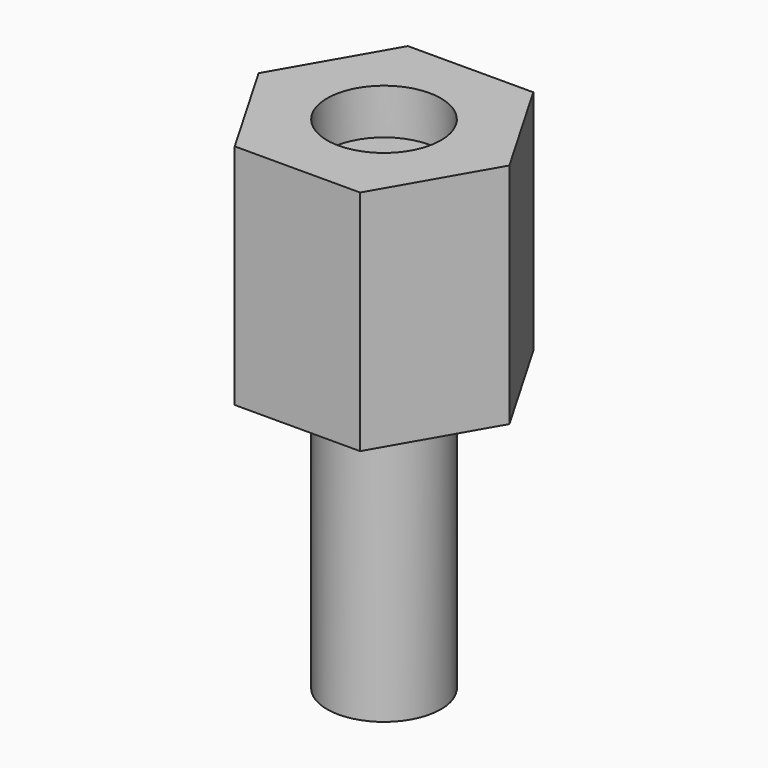
from build123d import *

# Parameters (mm, degrees)
F1_DEPTH = 5
F2_R     = 1.25
F3_DEPTH = 6
F5_R     = 1.25
F6_DEPTH = 7


with BuildPart() as f1:
    # F0 (on Top) → F1 (new body)
    with BuildSketch(Plane.XY):
        Polygon((1.379062, -2.379225), (2.75, 0.00469), (1.370938, 2.383915), (-1.379062, 2.379225), (-2.75, -0.00469), (-1.370938, -2.383915), align=None)
    extrude(amount=F1_DEPTH)

    # F2 (on Top) → F3 (join)
    with BuildSketch(Plane.XY):
        Circle(F2_R)
    extrude(amount=-F3_DEPTH)

    # F5 (on offset) → F6 (cut)
    with BuildSketch(Plane.XY.offset(4)):
        Circle(F5_R)
    extrude(amount=F6_DEPTH, mode=Mode.SUBTRACT)


solid = f1.part
